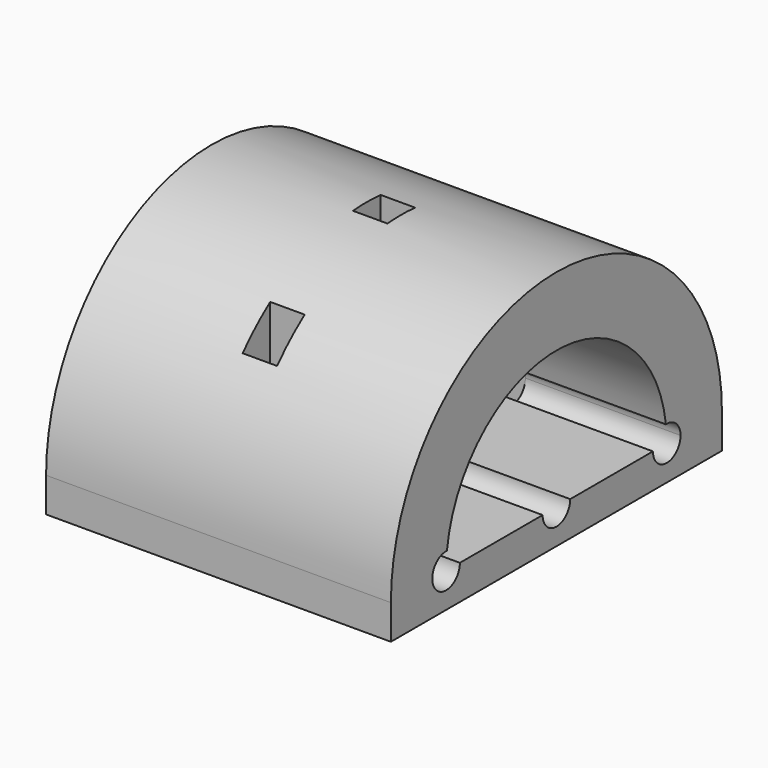
from build123d import *

# Parameters (mm, degrees)
F0_W     = 120
F0_H     = 10
F1_DEPTH = 100
F3_DEPTH = 100.001
F5_DEPTH = 100.001
F6_W     = 10
F6_H     = 10
F7_DEPTH = 70.001


with BuildPart() as f1:
    # F0 (on Right) → F1 (new body)
    with BuildSketch(Plane.YZ):
        with Locations((0, 5)):
            Rectangle(F0_W, F0_H)
        with BuildLine():
            Line((-60, 10), (60, 10))
            ThreePointArc((60, 10), (0, 70), (-60, 10))
        make_face()
    extrude(amount=F1_DEPTH)

    # F2 (on face) → F3 (cut, through all)
    with BuildSketch(Plane.YZ.offset(100)):
        with BuildLine():
            ThreePointArc((40, 10), (0, 50), (-40, 10))
            Line((-40, 10), (40, 10))
        make_face()
    extrude(amount=-F3_DEPTH, mode=Mode.SUBTRACT)

    # F4 (on face) → F5 (cut, through all)
    with BuildSketch(Plane.YZ.offset(100)):
        with BuildLine():
            ThreePointArc((-5, 10), (0, 5), (5, 10))
            Line((5, 10), (-5, 10))
        make_face()
        with BuildLine():
            Line((-5, 10), (5, 10))
            ThreePointArc((5, 10), (0, 15), (-5, 10))
        make_face()
        with BuildLine():
            ThreePointArc((39.6875, 14.990225), (36.355655, 13.423266), (35, 10))
            Line((35, 10), (40, 10))
            ThreePointArc((40, 10), (39.921799, 12.5), (39.6875, 14.990225))
        make_face()
        with BuildLine():
            Line((-40, 10), (-35, 10))
            ThreePointArc((-35, 10), (-36.355655, 13.423266), (-39.6875, 14.990225))
            ThreePointArc((-39.6875, 14.990225), (-39.921799, 12.5), (-40, 10))
        make_face()
        with BuildLine():
            ThreePointArc((-39.6875, 14.990225), (-43.644345, 6.576734), (-35, 10))
            Line((-35, 10), (-40, 10))
            ThreePointArc((-40, 10), (-39.921799, 12.5), (-39.6875, 14.990225))
        make_face()
        with BuildLine():
            Line((40, 10), (35, 10))
            ThreePointArc((35, 10), (40, 5), (45, 10))
            ThreePointArc((45, 10), (43.423266, 13.644345), (39.6875, 14.990225))
            ThreePointArc((39.6875, 14.990225), (39.921799, 12.5), (40, 10))
        make_face()
    extrude(amount=-F5_DEPTH, mode=Mode.SUBTRACT)

    # F6 (on face) → F7 (cut, through all)
    with BuildSketch(Plane(origin=(0, 0, 0), x_dir=(1, 0, 0), z_dir=(0, 0, -1))):
        with Locations((50, 40)):
            Rectangle(F6_W, F6_H)
        with Locations((50, 0)):
            Rectangle(F6_W, F6_H)
        with Locations((50, -40)):
            Rectangle(F6_W, F6_H)
    extrude(amount=-F7_DEPTH, mode=Mode.SUBTRACT)


solid = f1.part
